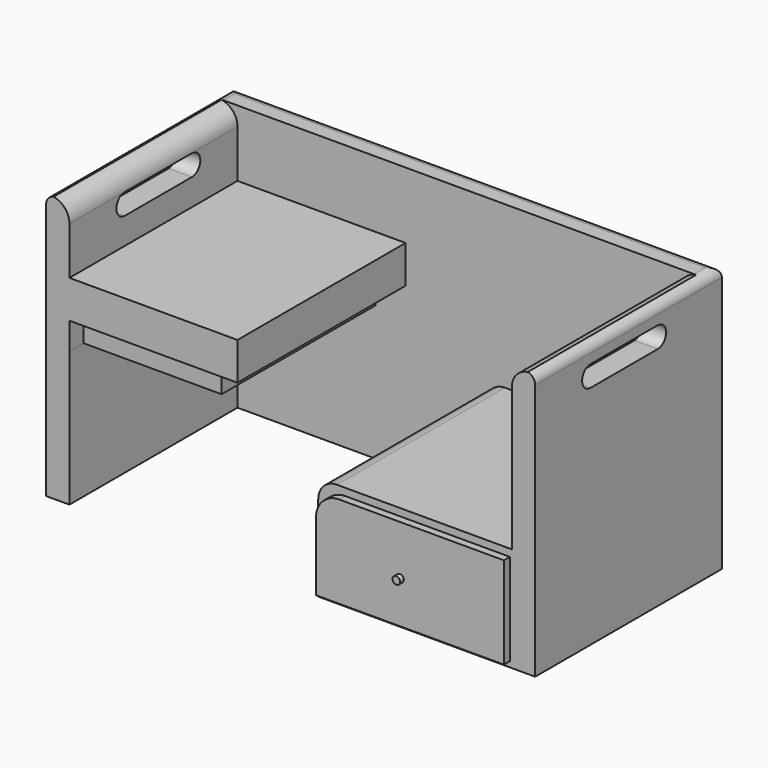
from build123d import *

# Parameters (mm, degrees)
F1_DEPTH  = 72.39
F2_W      = 57.15
F2_H      = 10.251723
F3_DEPTH  = 45.72
F4_W      = 52.673
F4_H      = 57.15
F5_DEPTH  = 28.448
F6_R      = 5.08
F7_R      = 5.08
F8_R      = 2.54
F10_DEPTH = 2.032
F11_R     = 1.034973
F12_DEPTH = 1.27
F13_W     = 37.548215
F13_H     = 57.15
F14_DEPTH = 7.366
F15_W     = 37.548215
F15_H     = 7.366
F16_DEPTH = 4.826
F18_DEPTH = 133.06929
F20_DEPTH = 2.54


with BuildPart() as f1:
    # F0 (on Top) → F1 (new body)
    with BuildSketch(Plane.XY):
        Polygon((-65.96891, 15.17484), (-65.96891, -48.32516), (-59.61891, -48.32516), (-59.61891, 8.82484), (60.74938, 8.82484), (60.74938, -48.32516), (67.09938, -48.32516), (67.09938, 15.17484), align=None)
    extrude(amount=F1_DEPTH)

    # F2 (on face) → F3 (join)
    with BuildSketch(Plane.YZ.offset(-59.61891)):
        with Locations((-19.75016, 49.195468)):
            Rectangle(F2_W, F2_H)
    extrude(amount=F3_DEPTH)

    # F4 (on face) → F5 (join)
    with BuildSketch(Plane(origin=(0, 0, 0), x_dir=(1, 0, 0), z_dir=(0, 0, -1))):
        with Locations((34.41288, 19.75016)):
            Rectangle(F4_W, F4_H)
    extrude(amount=-F5_DEPTH)

    # F6
    f6_edges = [f1.edges().sort_by_distance(p)[0] for p in [
        (-59.61891, -19.75016, 72.39),
        (60.74938, -19.75016, 72.39),
    ]]
    fillet(f6_edges, radius=F6_R)

    # F7
    f7_edges = [f1.edges().sort_by_distance(p)[0] for p in [
        (8.07638, -19.75016, 28.448),
    ]]
    fillet(f7_edges, radius=F7_R)

    # F8
    f8_edges = [f1.edges().sort_by_distance(p)[0] for p in [
        (0.565235, 15.17484, 72.39),
        (-65.96891, -16.57516, 72.39),
        (67.09938, -16.57516, 72.39),
    ]]
    fillet(f8_edges, radius=F8_R)

    # F9 (on face) → F10 (join)
    with BuildSketch(Plane.XZ.offset(48.32516)):
        with BuildLine():
            Line((9.086948, 20.117811), (9.086948, 1.490762))
            Line((9.086948, 1.490762), (60.224615, 1.490762))
            Line((60.224615, 1.490762), (60.224615, 26.467811))
            Line((60.224615, 26.467811), (15.436948, 26.467811))
            ThreePointArc((15.436948, 26.467811), (10.94682, 24.607939), (9.086948, 20.117811))
        make_face()
    extrude(amount=F10_DEPTH)

    # F11 (on face) → F12 (join)
    with BuildSketch(Plane.XZ.offset(50.35716)):
        with Locations((31.949081, 12.981111)):
            Circle(F11_R)
    extrude(amount=F12_DEPTH)

    # F13 (on face) → F14 (join)
    with BuildSketch(Plane(origin=(0, 0, 44.069607), x_dir=(1, 0, 0), z_dir=(0, 0, -1))):
        with Locations((-40.844803, 19.75016)):
            Rectangle(F13_W, F13_H)
    extrude(amount=F14_DEPTH)

    # F15 (on face) → F16 (cut)
    with BuildSketch(Plane.XZ.offset(48.32516)):
        with Locations((-40.844803, 40.386607)):
            Rectangle(F15_W, F15_H)
    extrude(amount=-F16_DEPTH, mode=Mode.SUBTRACT)

    # F17 (on face) → F18 (cut, through all)
    with BuildSketch(Plane(origin=(-65.96891, 0, 0), x_dir=(0, -1, 0), z_dir=(-1, 0, 0))):
        with BuildLine():
            Line((6.532698, 67.248325), (6.819354, 67.24837))
            ThreePointArc((6.819354, 67.24837), (6.676025, 67.251944), (6.532698, 67.248325))
        make_face()
        with BuildLine():
            Line((29.505255, 67.251944), (6.819354, 67.24837))
            Line((6.819354, 67.24837), (6.532698, 67.248325))
            ThreePointArc((6.532698, 67.248325), (3.819881, 64.322532), (6.676476, 61.536944))
            Line((6.676476, 61.536944), (29.505705, 61.536944))
            ThreePointArc((29.505705, 61.536944), (32.363205, 64.394669), (29.505255, 67.251944))
        make_face()
    extrude(amount=-F18_DEPTH, mode=Mode.SUBTRACT)

    # F19 (on face) → F20 (cut)
    with BuildSketch(Plane(origin=(0, 15.17484, 0), x_dir=(-1, 0, 0), z_dir=(0, 1, 0))):
        with BuildLine():
            Line((-40.407296, 43.596277), (-38.175821, 43.596277))
            ThreePointArc((-38.175821, 43.596277), (-37.926752, 43.47748), (-37.862327, 43.209157))
            Line((-37.862327, 43.209157), (-40.407354, 31.233791))
            ThreePointArc((-40.407354, 31.233791), (-40.342928, 30.965468), (-40.093859, 30.846671))
            Line((-40.093859, 30.846671), (-39.341829, 30.846671))
            ThreePointArc((-39.341829, 30.846671), (-39.14013, 30.918098), (-39.028334, 31.100543))
            Line((-39.028334, 31.100543), (-36.42667, 43.342406))
            ThreePointArc((-36.42667, 43.342406), (-36.314875, 43.52485), (-36.113176, 43.596277))
            Line((-36.113176, 43.596277), (-33.66965, 43.596277))
            ThreePointArc((-33.66965, 43.596277), (-33.468443, 43.667307), (-33.35642, 43.848913))
            Line((-33.35642, 43.848913), (-33.222265, 44.468142))
            ThreePointArc((-33.222265, 44.468142), (-33.286029, 44.73721), (-33.535495, 44.856498))
            Line((-33.535495, 44.856498), (-40.273141, 44.856498))
            ThreePointArc((-40.273141, 44.856498), (-40.474348, 44.785469), (-40.58637, 44.603863))
            Line((-40.58637, 44.603863), (-40.720525, 43.984634))
            ThreePointArc((-40.720525, 43.984634), (-40.656762, 43.715566), (-40.407296, 43.596277))
        make_face()
        with BuildLine():
            Line((-26.793036, 44.856498), (-27.544453, 44.856498))
            ThreePointArc((-27.544453, 44.856498), (-27.746108, 44.785107), (-27.857924, 44.602738))
            Line((-27.857924, 44.602738), (-30.704056, 31.233903))
            ThreePointArc((-30.704056, 31.233903), (-30.63969, 30.965513), (-30.390586, 30.846671))
            Line((-30.390586, 30.846671), (-29.638336, 30.846671))
            ThreePointArc((-29.638336, 30.846671), (-29.43682, 30.917951), (-29.32494, 31.100084))
            Line((-29.32494, 31.100084), (-27.963223, 37.461748))
            ThreePointArc((-27.963223, 37.461748), (-27.851343, 37.643882), (-27.649826, 37.715161))
            Line((-27.649826, 37.715161), (-23.978473, 37.715161))
            ThreePointArc((-23.978473, 37.715161), (-23.729257, 37.596182), (-23.665077, 37.327583))
            Line((-23.665077, 37.327583), (-24.969357, 31.23425))
            ThreePointArc((-24.969357, 31.23425), (-24.905176, 30.96565), (-24.65596, 30.846671))
            Line((-24.65596, 30.846671), (-23.904428, 30.846671))
            ThreePointArc((-23.904428, 30.846671), (-23.702773, 30.918063), (-23.590957, 31.100432))
            Line((-23.590957, 31.100432), (-20.744849, 44.469267))
            ThreePointArc((-20.744849, 44.469267), (-20.809215, 44.737657), (-21.05832, 44.856498))
            Line((-21.05832, 44.856498), (-21.810629, 44.856498))
            ThreePointArc((-21.810629, 44.856498), (-22.012117, 44.785241), (-22.12401, 44.603155))
            Line((-22.12401, 44.603155), (-23.275657, 39.228726))
            ThreePointArc((-23.275657, 39.228726), (-23.38755, 39.04664), (-23.589039, 38.975382))
            Line((-23.589039, 38.975382), (-27.260361, 38.975382))
            ThreePointArc((-27.260361, 38.975382), (-27.509599, 39.094389), (-27.573743, 39.36303))
            Line((-27.573743, 39.36303), (-26.479654, 44.46885))
            ThreePointArc((-26.479654, 44.46885), (-26.543797, 44.737491), (-26.793036, 44.856498))
        make_face()
        with BuildLine():
            Line((-8.206284, 44.856498), (-14.375925, 44.856498))
            ThreePointArc((-14.375925, 44.856498), (-14.577579, 44.785107), (-14.689396, 44.602738))
            Line((-14.689396, 44.602738), (-17.535528, 31.233903))
            ThreePointArc((-17.535528, 31.233903), (-17.471162, 30.965513), (-17.222057, 30.846671))
            Line((-17.222057, 30.846671), (-11.05001, 30.846671))
            ThreePointArc((-11.05001, 30.846671), (-10.848803, 30.917701), (-10.736781, 31.099306))
            Line((-10.736781, 31.099306), (-10.602626, 31.718536))
            ThreePointArc((-10.602626, 31.718536), (-10.666389, 31.987603), (-10.915855, 32.106892))
            Line((-10.915855, 32.106892), (-15.541486, 32.106892))
            ThreePointArc((-15.541486, 32.106892), (-15.790649, 32.225806), (-15.854918, 32.494305))
            Line((-15.854918, 32.494305), (-14.794412, 37.461583))
            ThreePointArc((-14.794412, 37.461583), (-14.682563, 37.643828), (-14.48098, 37.715161))
            Line((-14.48098, 37.715161), (-10.529188, 37.715161))
            ThreePointArc((-10.529188, 37.715161), (-10.326009, 37.787794), (-10.214922, 37.972772))
            Line((-10.214922, 37.972772), (-10.091014, 38.592002))
            ThreePointArc((-10.091014, 38.592002), (-10.157417, 38.858065), (-10.40528, 38.975382))
            Line((-10.40528, 38.975382), (-14.092082, 38.975382))
            ThreePointArc((-14.092082, 38.975382), (-14.341259, 39.094312), (-14.405506, 39.362837))
            Line((-14.405506, 39.362837), (-13.555249, 43.34274))
            ThreePointArc((-13.555249, 43.34274), (-13.443392, 43.524958), (-13.241826, 43.596277))
            Line((-13.241826, 43.596277), (-8.340439, 43.596277))
            ThreePointArc((-8.340439, 43.596277), (-8.139232, 43.667307), (-8.02721, 43.848913))
            Line((-8.02721, 43.848913), (-7.893055, 44.468142))
            ThreePointArc((-7.893055, 44.468142), (-7.956818, 44.73721), (-8.206284, 44.856498))
        make_face()
        with BuildLine():
            Line((7.068398, 31.854299), (6.934155, 31.23507))
            ThreePointArc((6.934155, 31.23507), (6.997896, 30.965977), (7.247376, 30.846671))
            Line((7.247376, 30.846671), (11.23804, 30.846671))
            ThreePointArc((11.23804, 30.846671), (11.356714, 30.869452), (11.458518, 30.934557))
            Line((11.458518, 30.934557), (15.641751, 34.899606))
            ThreePointArc((15.641751, 34.899606), (15.73398, 35.061987), (15.720042, 35.248212))
            Line((15.720042, 35.248212), (14.476495, 38.451188))
            ThreePointArc((14.476495, 38.451188), (14.457889, 38.611803), (14.52006, 38.761062))
            Line((14.52006, 38.761062), (16.331973, 41.146099))
            ThreePointArc((16.331973, 41.146099), (16.397113, 41.330102), (16.343429, 41.517769))
            Line((16.343429, 41.517769), (14.212523, 44.713794))
            ThreePointArc((14.212523, 44.713794), (14.097085, 44.818579), (13.945863, 44.856498))
            Line((13.945863, 44.856498), (10.091188, 44.856498))
            ThreePointArc((10.091188, 44.856498), (9.889998, 44.785482), (9.777968, 44.603905))
            Line((9.777968, 44.603905), (9.643726, 43.984676))
            ThreePointArc((9.643726, 43.984676), (9.707466, 43.715583), (9.956946, 43.596277))
            Line((9.956946, 43.596277), (10.298076, 43.596277))
            ThreePointArc((10.298076, 43.596277), (10.547099, 43.477536), (10.6116, 43.209298))
            Line((10.6116, 43.209298), (8.311157, 32.360904))
            ThreePointArc((8.311157, 32.360904), (8.199387, 32.178364), (7.997633, 32.106892))
            Line((7.997633, 32.106892), (7.381618, 32.106892))
            ThreePointArc((7.381618, 32.106892), (7.180428, 32.035876), (7.068398, 31.854299))
        make_face()
        with BuildLine():
            Line((14.15253, 34.880119), (11.671021, 32.20924))
            ThreePointArc((11.671021, 32.20924), (11.564291, 32.133591), (11.436225, 32.106892))
            Line((11.436225, 32.106892), (10.06034, 32.106892))
            ThreePointArc((10.06034, 32.106892), (9.811279, 32.22568), (9.74684, 32.493988))
            Line((9.74684, 32.493988), (10.828851, 37.587199))
            ThreePointArc((10.828851, 37.587199), (10.940642, 37.76966), (11.142351, 37.841095))
            Line((11.142351, 37.841095), (12.24788, 37.841095))
            ThreePointArc((12.24788, 37.841095), (12.396907, 37.804339), (12.511753, 37.702502))
            Line((12.511753, 37.702502), (14.181607, 35.28017))
            ThreePointArc((14.181607, 35.28017), (14.237387, 35.075034), (14.15253, 34.880119))
        make_face(mode=Mode.SUBTRACT)
        with BuildLine():
            Line((14.749348, 41.112112), (12.506394, 39.179013))
            ThreePointArc((12.506394, 39.179013), (12.408761, 39.121349), (12.297159, 39.10129))
            Line((12.297159, 39.10129), (11.550871, 39.10129))
            ThreePointArc((11.550871, 39.10129), (11.302024, 39.219814), (11.237231, 39.487723))
            Line((11.237231, 39.487723), (12.047457, 43.341718))
            ThreePointArc((12.047457, 43.341718), (12.159125, 43.524629), (12.361097, 43.596277))
            Line((12.361097, 43.596277), (12.779241, 43.596277))
            ThreePointArc((12.779241, 43.596277), (12.90829, 43.569148), (13.015492, 43.492352))
            Line((13.015492, 43.492352), (14.776365, 41.571454))
            ThreePointArc((14.776365, 41.571454), (14.860056, 41.336066), (14.749348, 41.112112))
        make_face(mode=Mode.SUBTRACT)
        with BuildLine():
            Line((23.518185, 31.149363), (28.467017, 37.72853))
            ThreePointArc((28.467017, 37.72853), (28.527075, 37.868797), (28.515468, 38.020938))
            Line((28.515468, 38.020938), (26.40579, 44.462605))
            ThreePointArc((26.40579, 44.462605), (26.153823, 44.679002), (25.845355, 44.555868))
            Line((25.845355, 44.555868), (20.896422, 37.995619))
            ThreePointArc((20.896422, 37.995619), (20.836153, 37.85535), (20.847617, 37.703113))
            Line((20.847617, 37.703113), (22.957397, 31.24253))
            ThreePointArc((22.957397, 31.24253), (23.209533, 31.025858), (23.518185, 31.149363))
        make_face()
        with BuildLine():
            Line((23.264884, 32.776927), (22.29045, 37.738021))
            ThreePointArc((22.29045, 37.738021), (22.289725, 37.857752), (22.332995, 37.969394))
            Line((22.332995, 37.969394), (25.493697, 43.037273))
            ThreePointArc((25.493697, 43.037273), (25.822951, 43.183), (26.079869, 42.930735))
            Line((26.079869, 42.930735), (27.072065, 37.987005))
            ThreePointArc((27.072065, 37.987005), (27.073137, 37.866474), (27.02961, 37.754071))
            Line((27.02961, 37.754071), (23.851147, 32.668827))
            ThreePointArc((23.851147, 32.668827), (23.521255, 32.523514), (23.264884, 32.776927))
        make_face(mode=Mode.SUBTRACT)
        with BuildLine():
            Line((31.834892, 30.991814), (32.391897, 30.702983))
            ThreePointArc((32.391897, 30.702983), (32.616047, 30.676297), (32.80219, 30.803992))
            Line((32.80219, 30.803992), (36.720157, 36.413943))
            ThreePointArc((36.720157, 36.413943), (37.038731, 36.546032), (37.292676, 36.31269))
            Line((37.292676, 36.31269), (38.72185, 30.930712))
            ThreePointArc((38.72185, 30.930712), (38.890759, 30.725082), (39.156772, 30.717922))
            Line((39.156772, 30.717922), (39.94173, 31.05091))
            ThreePointArc((39.94173, 31.05091), (40.105867, 31.20803), (40.124598, 31.434473))
            Line((40.124598, 31.434473), (38.145223, 38.322506))
            ThreePointArc((38.145223, 38.322506), (38.137371, 38.46521), (38.192335, 38.597138))
            Line((38.192335, 38.597138), (42.18049, 44.188182))
            ThreePointArc((42.18049, 44.188182), (42.23242, 44.443895), (42.076981, 44.653476))
            Line((42.076981, 44.653476), (41.49073, 44.984023))
            ThreePointArc((41.49073, 44.984023), (41.259223, 45.016659), (41.067146, 44.883365))
            Line((41.067146, 44.883365), (38.129194, 40.502837))
            ThreePointArc((38.129194, 40.502837), (37.807134, 40.36577), (37.551728, 40.605099))
            Line((37.551728, 40.605099), (36.534922, 44.755857))
            ThreePointArc((36.534922, 44.755857), (36.364221, 44.967614), (36.092264, 44.971936))
            Line((36.092264, 44.971936), (35.247194, 44.592187))
            ThreePointArc((35.247194, 44.592187), (35.087864, 44.434804), (35.070477, 44.211525))
            Line((35.070477, 44.211525), (36.673612, 38.619703))
            ThreePointArc((36.673612, 38.619703), (36.681405, 38.477162), (36.626529, 38.345378))
            Line((36.626529, 38.345378), (31.721426, 31.462332))
            ThreePointArc((31.721426, 31.462332), (31.670863, 31.201198), (31.834892, 30.991814))
        make_face()
    extrude(amount=-F20_DEPTH, mode=Mode.SUBTRACT)


solid = f1.part
